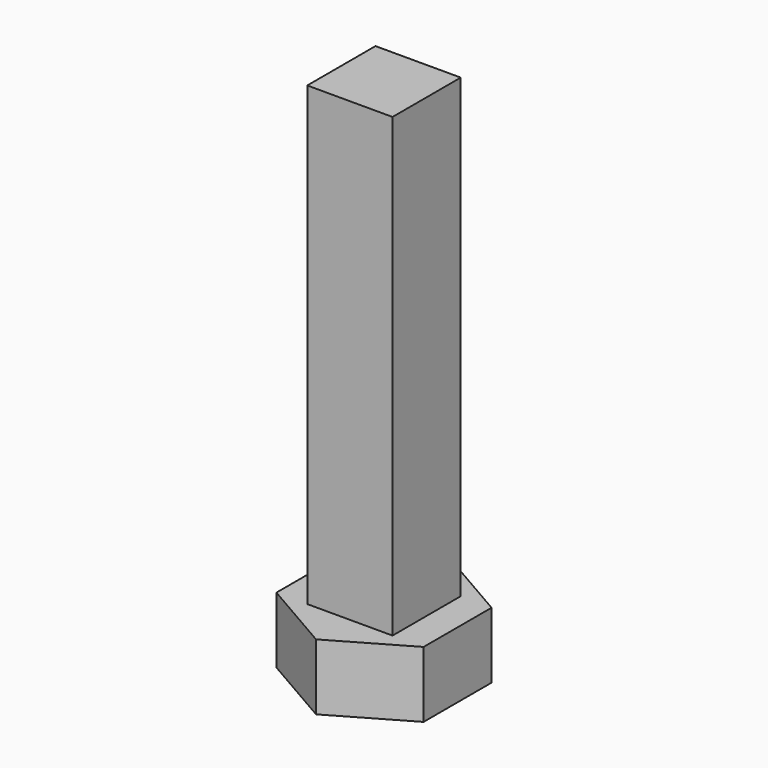
from build123d import *

# Parameters (mm, degrees)
F0_W     = 3.1
F0_H     = 3.1
F1_DEPTH = 19
F2_R     = 1.25
F3_DEPTH = 2.4


with BuildPart() as f1:
    # F0 (on Top) → F1 (new body)
    with BuildSketch(Plane.XY):
        Rectangle(F0_W, F0_H)
    extrude(amount=F1_DEPTH)


with BuildPart() as f3:
    # F2 (on Top) → F3 (new body)
    with BuildSketch(Plane.XY):
        Polygon((0, -3.088824), (2.675, -1.544412), (2.675, 1.544412), (0, 3.088824), (-2.675, 1.544412), (-2.675, -1.544412), align=None)
        Circle(F2_R, mode=Mode.SUBTRACT)
    extrude(amount=F3_DEPTH)


solid = Compound([f1.part, f3.part])
